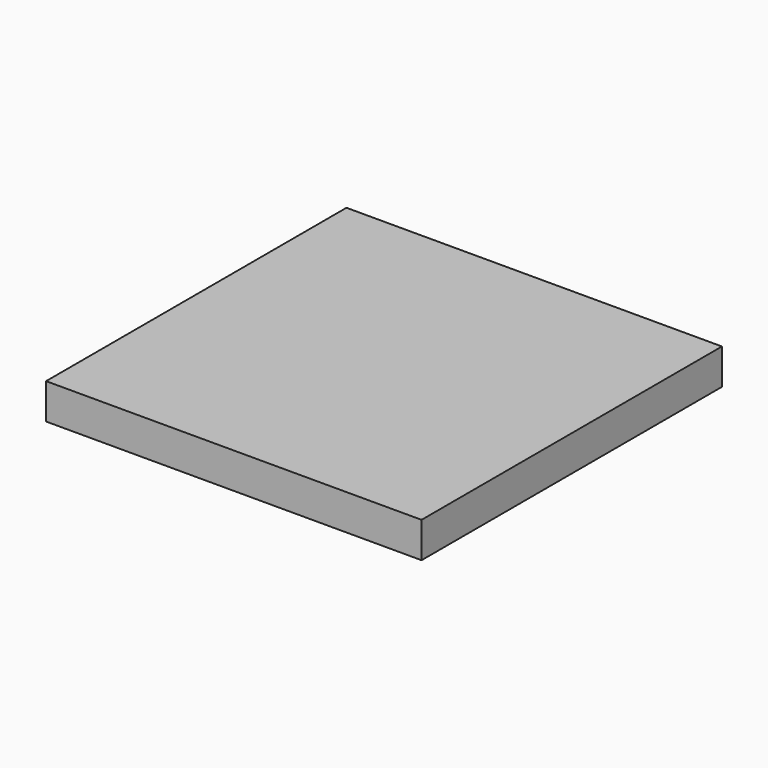
from build123d import *

# Parameters (mm, degrees)
F0_W      = 190
F0_H      = 190
F1_DEPTH  = 6
F1_FACE_W = 190
F1_FACE_H = 190
F2_DEPTH  = 6


with BuildPart() as f1:
    # F0 (on Top) → F1 (new body, symmetric)
    with BuildSketch(Plane.XY):
        with Locations((95, 95)):
            Rectangle(F0_W, F0_H)
    extrude(amount=F1_DEPTH, both=True)

    # F1_face (on face) → F2 (join, symmetric)
    with BuildSketch(Plane(origin=(95, 95, 6), x_dir=(1, 0, 0), z_dir=(0, 0, 1))):
        Rectangle(F1_FACE_W, F1_FACE_H)
    extrude(amount=F2_DEPTH, both=True)


solid = f1.part
